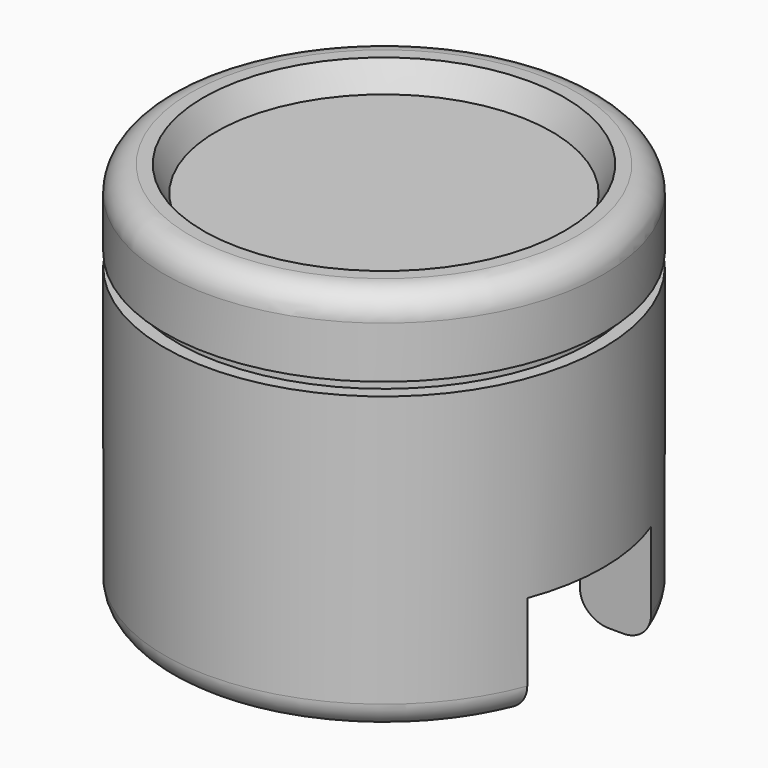
from build123d import *

# Parameters (mm, degrees)
F2_W     = 200
F2_H     = 30
F3_DEPTH = 20
F6_R     = 32.5
F4_R     = 35
F9_W     = 2.5
F9_H     = 2.5


with BuildPart() as f1:
    # F0 (on Front) → F1 (revolve)
    with BuildSketch(Plane.XZ):
        with BuildLine():
            Line((-42.5, 70), (-42.5, 5))
            ThreePointArc((-42.5, 5), (-41.035534, 1.464466), (-37.5, 0))
            Line((-37.5, 0), (-35, 0))
            ThreePointArc((-35, 0), (-31.464466, 1.464466), (-30, 5))
            Line((-30, 5), (-30, 35))
            ThreePointArc((-30, 35), (-28.535534, 38.535534), (-25, 40))
            Line((-25, 40), (-20, 40))
            ThreePointArc((-20, 40), (-16.464466, 38.535534), (-15, 35))
            Line((-15, 35), (-15, 5))
            ThreePointArc((-15, 5), (-13.535534, 1.464466), (-10, 0))
            Line((-10, 0), (0, 0))
            Line((0, 0), (0, 75))
            Line((0, 75), (-37.5, 75))
            ThreePointArc((-37.5, 75), (-41.035534, 73.535534), (-42.5, 70))
        make_face()
    revolve(axis=Axis((0, 0, 37.5), (0, 0, -1)))

    # F2 (on face) → F3 (cut)
    with BuildSketch(Plane(origin=(0, 0, 0), x_dir=(1, 0, 0), z_dir=(0, 0, -1))):
        Rectangle(F2_W, F2_H)
    extrude(amount=-F3_DEPTH, mode=Mode.SUBTRACT)

    # F6 (on offset) → F7 section 0
    with BuildSketch(Plane.XY.offset(70)):
        Circle(F6_R)
    # F4 (on face) → F7 section 1
    with BuildSketch(Plane.XY.offset(75)):
        Circle(F4_R)
    loft(mode=Mode.SUBTRACT)

    # F9 (on Front) → F10 (revolve, cut)
    with BuildSketch(Plane.XZ):
        with Locations((41.25, 58.75)):
            Rectangle(F9_W, F9_H)
    revolve(axis=Axis((0, 0, 44.033579), (0, 0, 1)), mode=Mode.SUBTRACT)


solid = f1.part
